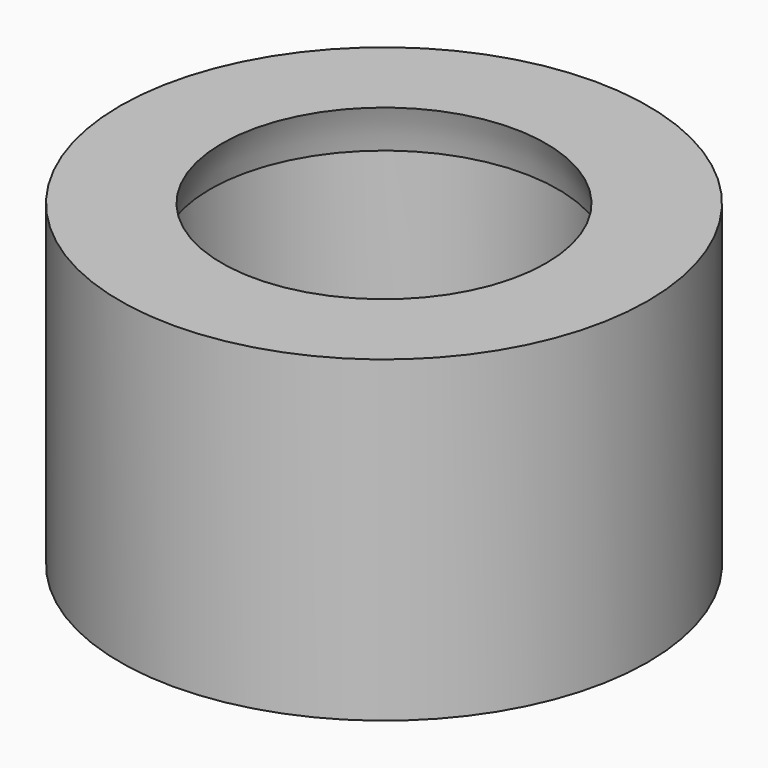
from build123d import *


with BuildPart() as f1:
    # F0 (on Front) → F1 (revolve)
    with BuildSketch(Plane.XZ):
        Polygon((-4.7625, 0.631558), (-4.7625, 1.826994), (-7.1625, 1.826994), (-7.1625, -6.801847), (0, -6.801847), (0, -4.7625), (-4.7625, -4.7625), align=None)
        with BuildLine():
            Line((-4.398125, 1.826994), (-4.7625, 1.826994))
            Line((-4.7625, 1.826994), (-4.7625, 0.631558))
            Line((-4.7625, 0.631558), (-4.720439, 0.631558))
            ThreePointArc((-4.720439, 0.631558), (-4.598295, 1.239794), (-4.398125, 1.826994))
        make_face()
    revolve(axis=Axis((0, 0, -5.782173), (0, 0, 1)))


solid = f1.part
